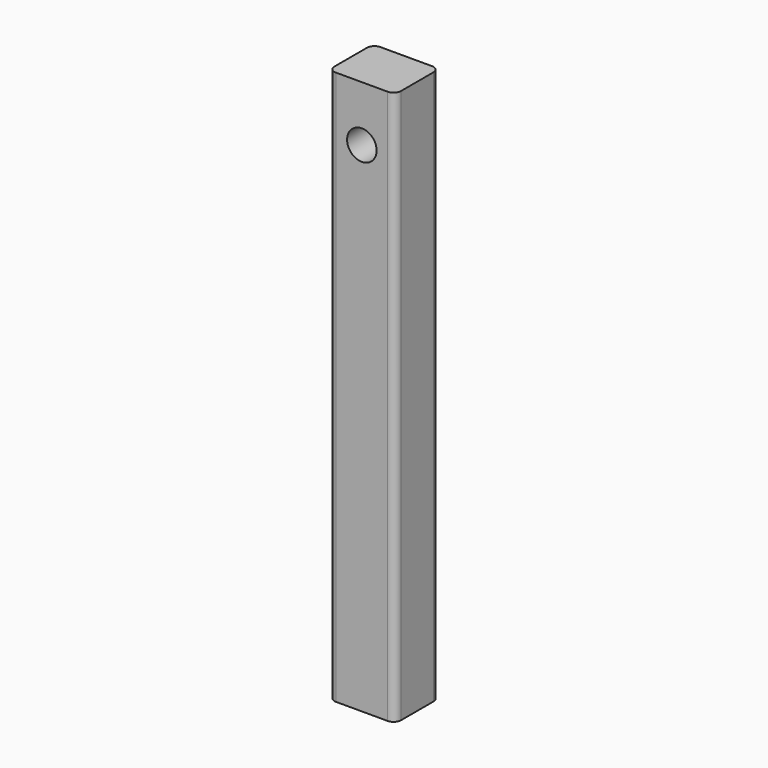
from build123d import *

# Parameters (mm, degrees)
F0_W     = 18
F0_H     = 150
F1_DEPTH = 7.5
F2_R     = 2
F3_R     = 4
F4_DEPTH = 25.4


with BuildPart() as f1:
    # F0 (on Front) → F1 (new body, symmetric)
    with BuildSketch(Plane.XZ):
        Rectangle(F0_W, F0_H)
    extrude(amount=F1_DEPTH, both=True)

    # F2
    f2_edges = [f1.edges().sort_by_distance(p)[0] for p in [
        (-9, -7.5, 0),
        (9, -7.5, 0),
        (9, 7.5, 0),
        (-9, 7.5, 0),
    ]]
    fillet(f2_edges, radius=F2_R)

    # F3 (on face) → F4 (cut)
    with BuildSketch(Plane.XZ.offset(7.5)):
        with Locations((0, 60)):
            Circle(F3_R)
    extrude(amount=-F4_DEPTH, mode=Mode.SUBTRACT)


solid = f1.part
